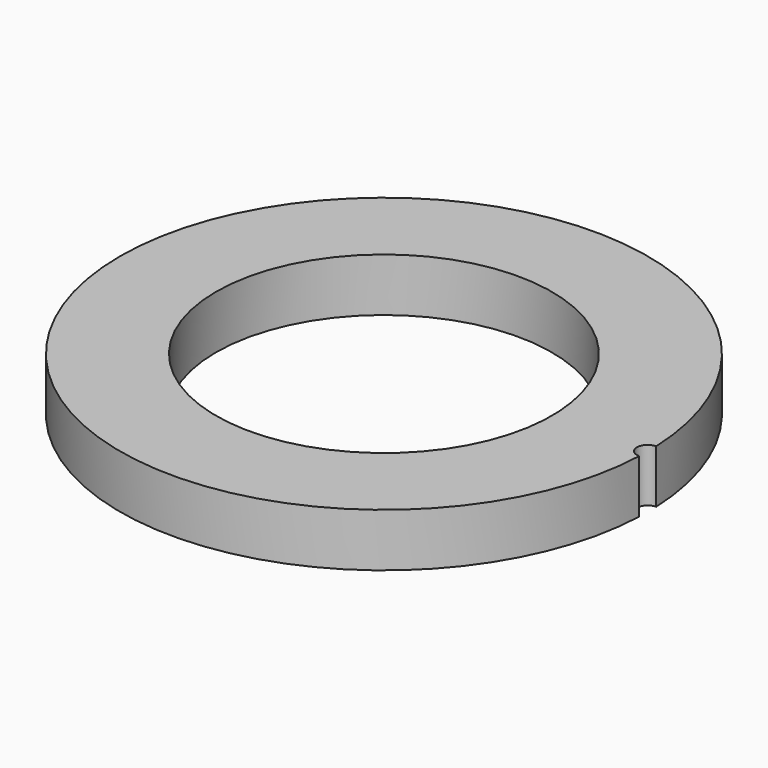
from build123d import *

# Parameters (mm, degrees)
F0_W     = 18.02
F0_H     = 10
F3_DEPTH = 10.001


with BuildPart() as f1:
    # F0 (on Front) → F1 (revolve)
    with BuildSketch(Plane.XZ):
        with Locations((-40.51, 5)):
            Rectangle(F0_W, F0_H)
    revolve(axis=Axis((0, 0, -4.61845), (0, 0, -1)))

    # F2 (on face) → F3 (cut, through all)
    with BuildSketch(Plane.XY.offset(10)):
        with BuildLine():
            ThreePointArc((49.52, 0), (49.509898, 1.000204), (49.479596, 2))
            ThreePointArc((49.479596, 2), (47.479596, 0), (49.479596, -2))
            ThreePointArc((49.479596, -2), (49.509898, -1.000204), (49.52, 0))
        make_face()
    extrude(amount=-F3_DEPTH, mode=Mode.SUBTRACT)


solid = f1.part
